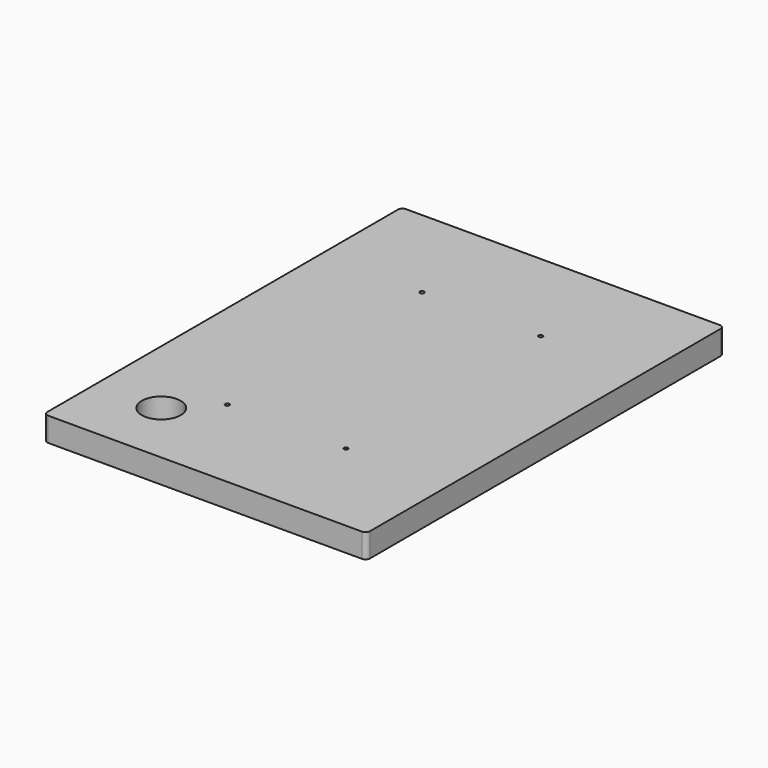
from build123d import *

# Parameters (mm, degrees)
F0_W     = 341.3125
F0_H     = 473.075
F0_R     = 20.6375
F0_R_2   = 2.15265
F1_DEPTH = 25.4
F2_R     = 4.7625


with BuildPart() as f1:
    # F0 (on Top) → F1 (new body)
    with BuildSketch(Plane.XY):
        Rectangle(F0_W, F0_H)
        with Locations((-101.6, -167.48125)):
            Circle(F0_R, mode=Mode.SUBTRACT)
        with Locations((-62.798147, -128.679397)):
            Circle(F0_R_2, mode=Mode.SUBTRACT)
        with Locations((62.798147, -128.679397)):
            Circle(F0_R_2, mode=Mode.SUBTRACT)
        with Locations((-62.798147, 128.679397)):
            Circle(F0_R_2, mode=Mode.SUBTRACT)
        with Locations((62.798147, 128.679397)):
            Circle(F0_R_2, mode=Mode.SUBTRACT)
    extrude(amount=F1_DEPTH)

    # F2
    f2_edges = [f1.edges().sort_by_distance(p)[0] for p in [
        (-170.65625, 236.5375, 12.7),
        (170.65625, 236.5375, 12.7),
        (170.65625, -236.5375, 12.7),
        (-170.65625, -236.5375, 12.7),
    ]]
    fillet(f2_edges, radius=F2_R)


solid = f1.part
